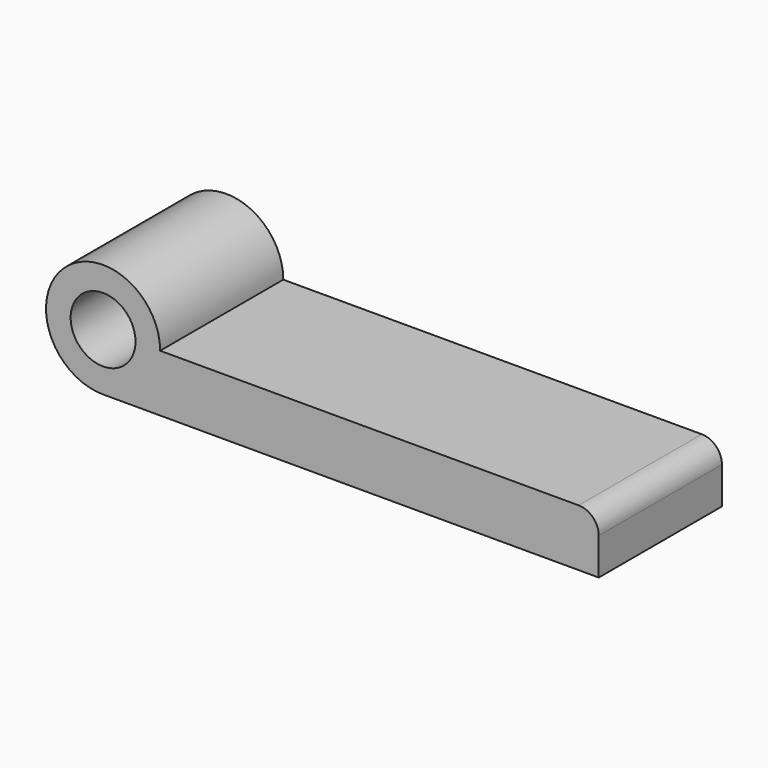
from build123d import *

# Parameters (mm, degrees)
F0_R     = 12.7
F1_DEPTH = 60.325


with BuildPart() as f1:
    # F0 (on Front) → F1 (new body)
    with BuildSketch(Plane.XZ):
        with BuildLine():
            Line((186.3344, 0), (22.352, 0))
            ThreePointArc((22.352, 0), (-15.805251, 15.805251), (0, -22.352))
            Line((0, -22.352), (194.2084, -22.352))
            Line((194.2084, -22.352), (194.2084, -7.874))
            ThreePointArc((194.2084, -7.874), (191.902159, -2.306241), (186.3344, 0))
        make_face()
        Circle(F0_R, mode=Mode.SUBTRACT)
    extrude(amount=F1_DEPTH)


solid = f1.part
